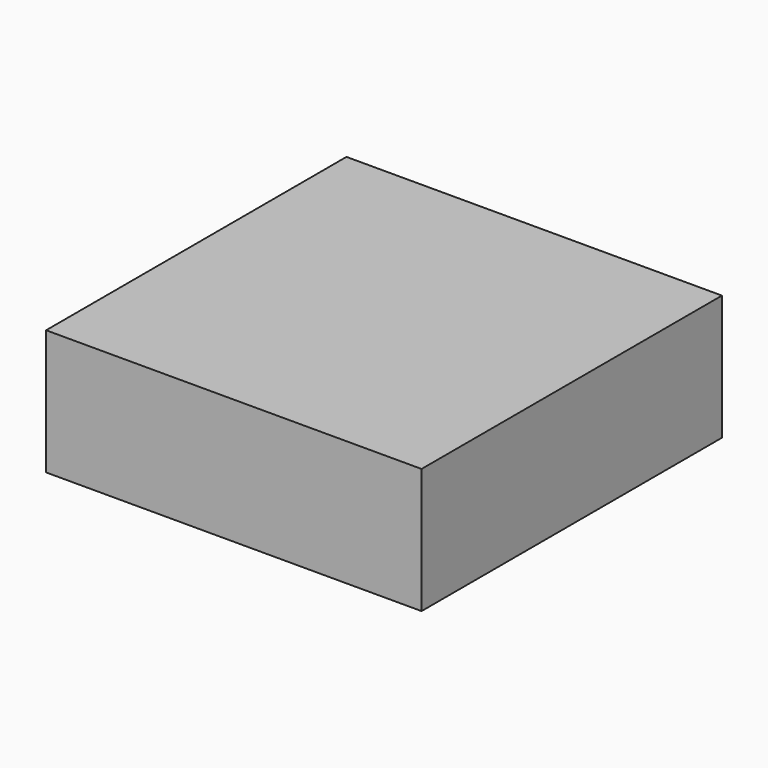
from build123d import *

# Parameters (mm, degrees)
SKETCH_W  = 600
SKETCH_H  = 600
PAD_DEPTH = 200


with BuildPart() as part:
    # Sketch → Pad (new body)
    with BuildSketch(Plane.XY):
        Rectangle(SKETCH_W, SKETCH_H)
    extrude(amount=PAD_DEPTH)


solid = part.part
